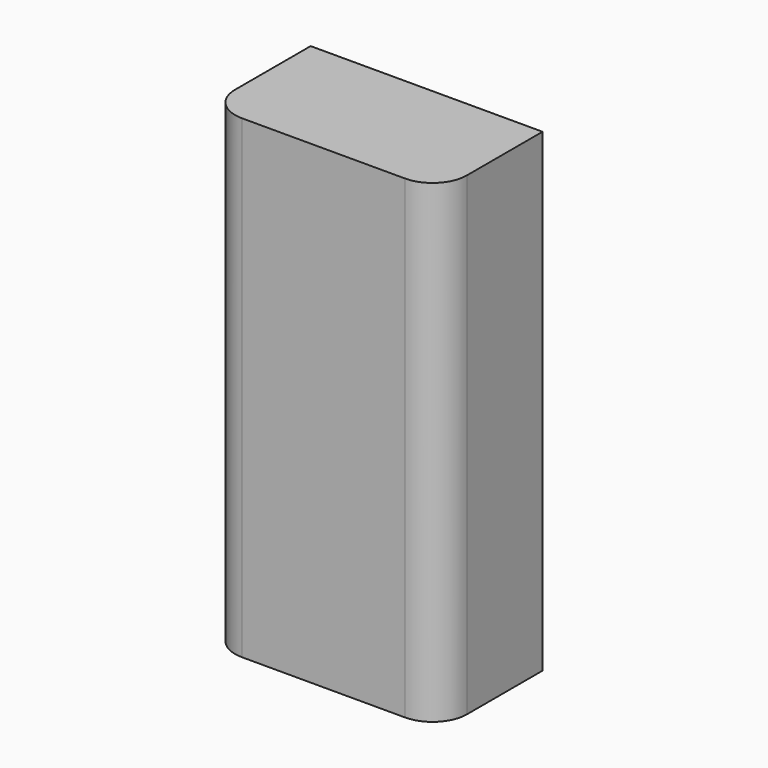
from build123d import *

# Parameters (mm, degrees)
F0_W     = 27
F0_H     = 55.25
F1_DEPTH = 15
F2_R     = 4
F3_T     = -1.2


with BuildPart() as f1:
    # F0 (on Front) → F1 (new body)
    with BuildSketch(Plane.XZ):
        Rectangle(F0_W, F0_H)
    extrude(amount=F1_DEPTH)

    # F2
    f2_edges = [f1.edges().sort_by_distance(p)[0] for p in [
        (13.5, -15, 0),
        (-13.5, -15, 0),
    ]]
    fillet(f2_edges, radius=F2_R)

    # F3
    f3_openings = [f1.faces().sort_by_distance(p)[0] for p in [
        (0, 0, 0),
    ]]
    offset(amount=F3_T, openings=f3_openings)


solid = f1.part
